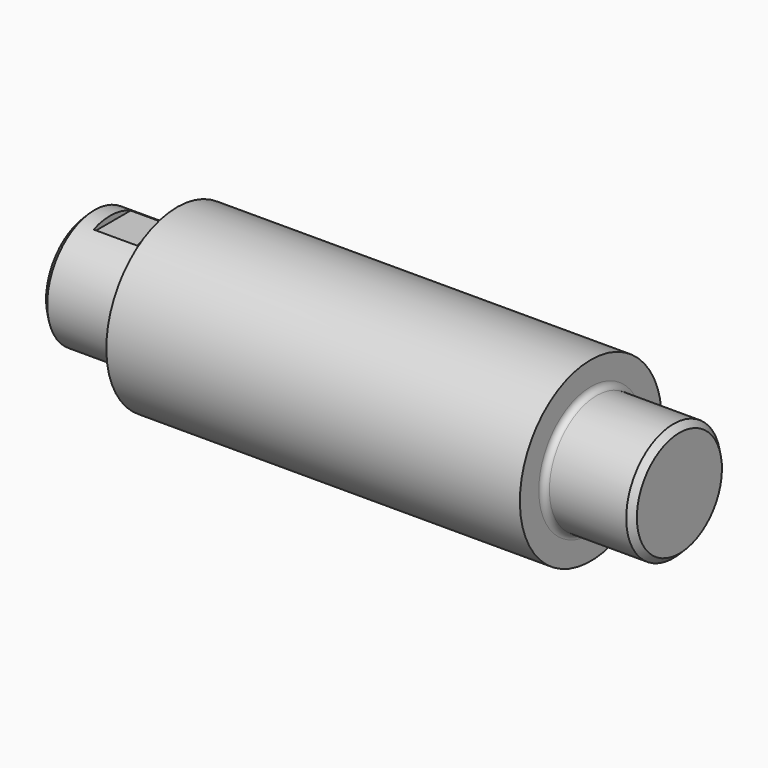
from build123d import *

# Parameters (mm, degrees)
F2_SIZE  = 1
F3_R     = 1
F5_W     = 7.37243
F5_H     = 8.687595
F6_DEPTH = 1


with BuildPart() as f1:
    # F0 (on Front) → F1 (revolve)
    with BuildSketch(Plane.XZ):
        Polygon((-50, 10), (-50, 0), (50, 0), (50, 10), (35, 10), (35, 15), (-35, 15), (-35, 10), align=None)
    revolve(axis=Axis((0, 0, 0), (-1, 0, 0)))

    # F2
    f2_edges = [f1.edges().sort_by_distance(p)[0] for p in [
        (-50, 0, -10),
        (50, 0, -10),
    ]]
    chamfer(f2_edges, length=F2_SIZE)

    # F3
    f3_edges = [f1.edges().sort_by_distance(p)[0] for p in [
        (-35, 0, -10),
        (35, 0, -10),
    ]]
    fillet(f3_edges, radius=F3_R)

    # F5 (on offset) → F6 (cut)
    with BuildSketch(Plane.XY.offset(10)):
        with Locations((-42.681136, 0.846396)):
            Rectangle(F5_W, F5_H)
    extrude(amount=-F6_DEPTH, mode=Mode.SUBTRACT)


solid = f1.part
